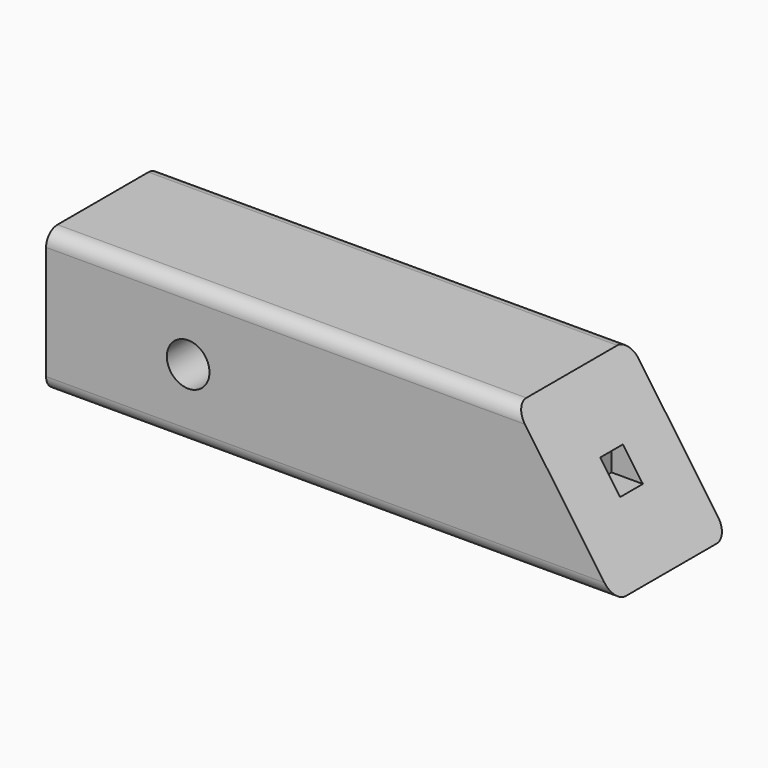
from build123d import *

# Parameters (mm, degrees)
F0_W     = 127
F0_H     = 31.75
F1_DEPTH = 15.875
F2_R     = 4.7625
F3_DEPTH = 31.751
F5_DEPTH = 31.751
F7_W     = 6.35
F7_H     = 6.35
F8_DEPTH = 15.875
F9_R     = 3.175


with BuildPart() as f1:
    # F0 (on Front) → F1 (new body, symmetric)
    with BuildSketch(Plane.XZ):
        Rectangle(F0_W, F0_H)
    extrude(amount=F1_DEPTH, both=True)

    # F2 (on face) → F3 (cut, through all)
    with BuildSketch(Plane.XZ.offset(15.875)):
        with Locations((-31.75, 0)):
            Circle(F2_R)
    extrude(amount=-F3_DEPTH, mode=Mode.SUBTRACT)

    # F4 (on face) → F5 (cut, through all)
    with BuildSketch(Plane.XZ.offset(15.875)):
        Polygon((41.2684106618, 15.875), (63.5, -15.875), (63.5, 15.875), align=None)
    extrude(amount=-F5_DEPTH, mode=Mode.SUBTRACT)

    # F7 (on offset) → F8 (cut)
    with BuildSketch(Plane.YZ.offset(63.5)):
        Rectangle(F7_W, F7_H)
    extrude(amount=-F8_DEPTH, mode=Mode.SUBTRACT)

    # F9
    f9_edges = [f1.edges().sort_by_distance(p)[0] for p in [
        (-11.115795, -15.875, 15.875),
        (-11.115795, 15.875, 15.875),
        (0, -15.875, -15.875),
        (0, 15.875, -15.875),
    ]]
    fillet(f9_edges, radius=F9_R)


solid = f1.part
